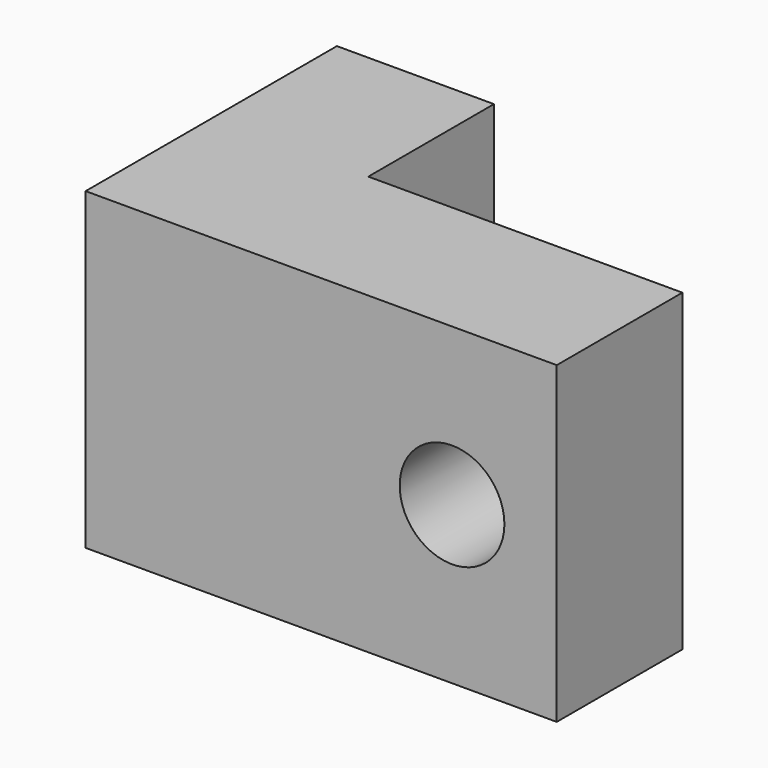
from build123d import *

# Parameters (mm, degrees)
F1_DEPTH = 76.2
F3_D     = 50.8


with BuildPart() as f1:
    # F0 (on Top) → F1 (new body, symmetric)
    with BuildSketch(Plane.XY):
        Polygon((-38.1, 76.2), (-114.3, 76.2), (-114.3, -76.2), (114.3, -76.2), (114.3, 0), (-38.1, 0), align=None)
    extrude(amount=F1_DEPTH, both=True)

    # F3 (through all)
    with Locations(Plane(origin=(0, 0, 0), x_dir=(-1, 0, 0), z_dir=(0, 1, 0))):
        with Locations((-63.5, 0)):
            Hole(F3_D / 2)


solid = f1.part
